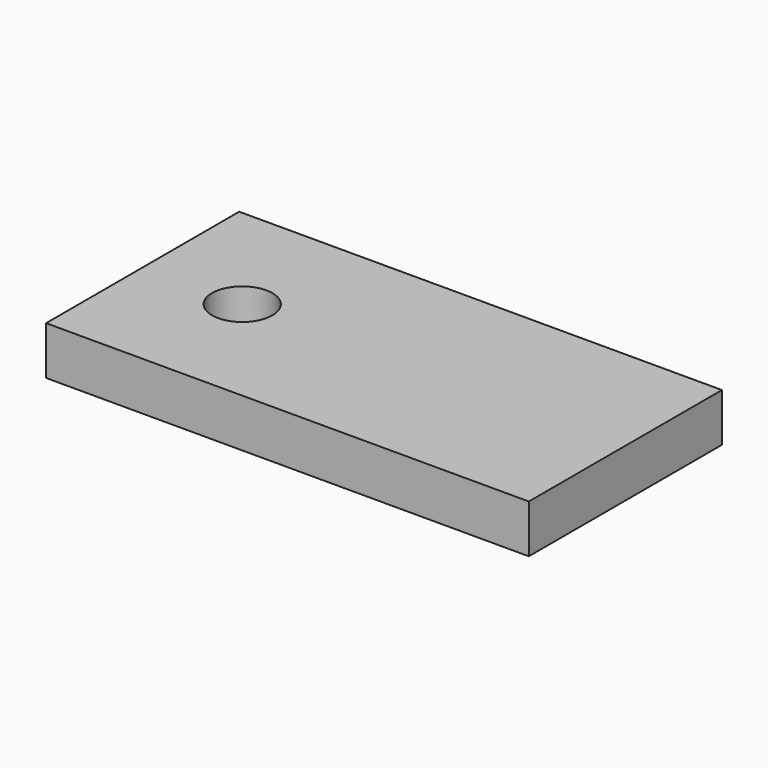
from build123d import *

# Parameters (mm, degrees)
F0_W     = 80
F0_H     = 40
F0_R     = 5
F1_DEPTH = 4


with BuildPart() as f1:
    # F0 (on Top) → F1 (new body, symmetric)
    with BuildSketch(Plane.XY):
        Rectangle(F0_W, F0_H)
        with Locations((-23.5, 0)):
            Circle(F0_R, mode=Mode.SUBTRACT)
    extrude(amount=F1_DEPTH, both=True)


solid = f1.part
